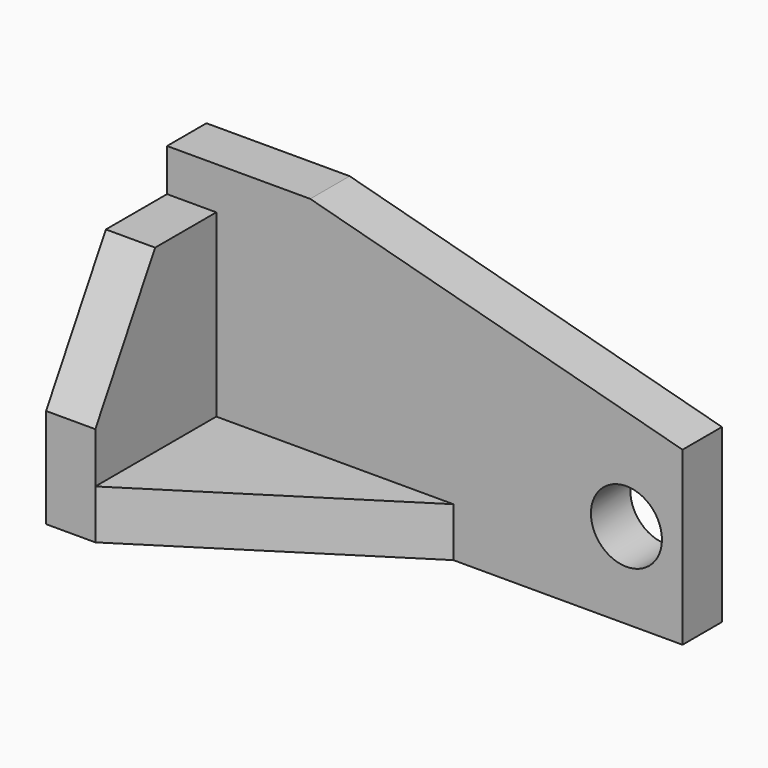
from build123d import *

# Parameters (mm, degrees)
F1_DEPTH  = 10.922
F2_W      = 10.922
F2_H      = 50.8
F3_DEPTH  = 33.528
F5_DEPTH  = 25.4
F6_W      = 52.578
F6_H      = 10.922
F7_DEPTH  = 33.528
F9_DEPTH  = 10.922
F10_R     = 7.874
F11_DEPTH = 10.922


with BuildPart() as f1:
    # F0 (on Front) → F1 (new body)
    with BuildSketch(Plane.XZ):
        Polygon((-22.509801, 27.671986), (-54.259801, 27.671986), (-54.259801, -32.526014), (60.040199, -32.526014), (60.040199, 5.55278), align=None)
    extrude(amount=F1_DEPTH)

    # F2 (on face) → F3 (join)
    with BuildSketch(Plane.XZ.offset(10.922)):
        with Locations((-48.798801, -7.126014)):
            Rectangle(F2_W, F2_H)
    extrude(amount=F3_DEPTH)

    # F4 (on face) → F5 (cut)
    with BuildSketch(Plane.YZ.offset(-43.337801)):
        Polygon((-44.45, 18.273986), (-44.45, -10.428014), (-27.878893, 18.273986), align=None)
    extrude(amount=-F5_DEPTH, mode=Mode.SUBTRACT)

    # F6 (on face) → F7 (join)
    with BuildSketch(Plane.XZ.offset(10.922)):
        with Locations((-17.048801, -27.065014)):
            Rectangle(F6_W, F6_H)
    extrude(amount=F7_DEPTH)

    # F8 (on face) → F9 (cut)
    with BuildSketch(Plane.XY.offset(-21.604014)):
        Polygon((9.240199, -44.45), (9.240199, -10.922), (-43.337801, -44.45), align=None)
    extrude(amount=-F9_DEPTH, mode=Mode.SUBTRACT)

    # F10 (on face) → F11 (cut)
    with BuildSketch(Plane.XZ.offset(10.922)):
        with Locations((47.604166, -13.476014)):
            Circle(F10_R)
    extrude(amount=-F11_DEPTH, mode=Mode.SUBTRACT)


solid = f1.part
